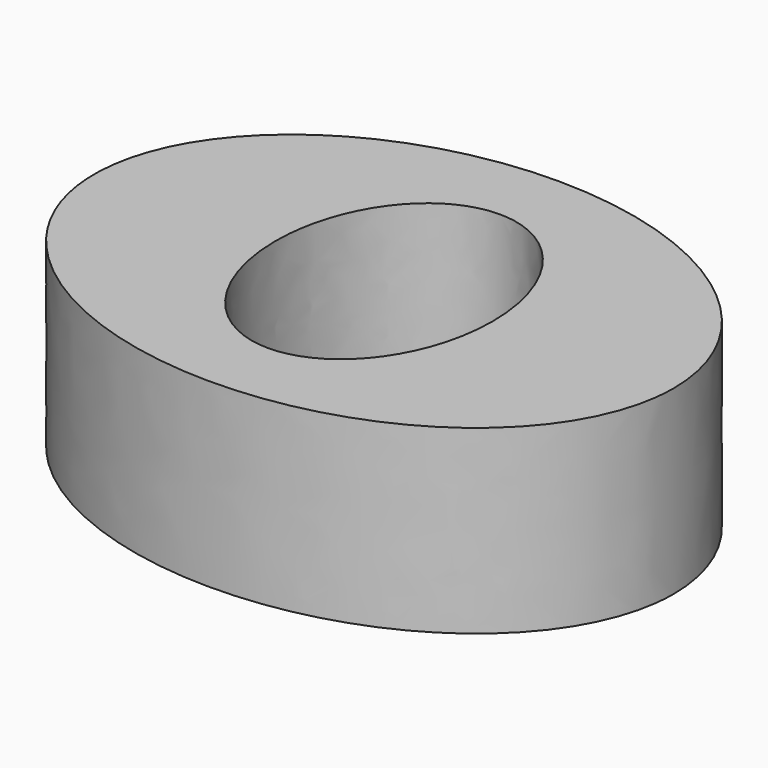
from build123d import *

# Parameters (mm, degrees)
F1_DEPTH = 25


with BuildPart() as f1:
    # F0 (on Top) → F1 (new body)
    with BuildSketch(Plane.XY):
        with BuildLine():
            add(Edge.make_bspline(
                [(40, 0), (40, 51.961524), (-20, 25.980762), (-80, 0), (-20, -25.980762), (40, -51.961524), (40, 0)],
                knots=[0, 0, 0, 2.094395, 2.094395, 4.18879, 4.18879, 6.283185, 6.283185, 6.283185], degree=2, weights=[1, 0.5, 1, 0.5, 1, 0.5, 1]))
        make_face()
        with BuildLine():
            add(Edge.make_bspline(
                [(0, 20), (-25.980762, 20), (-12.990381, -10), (0, -40), (12.990381, -10), (25.980762, 20), (0, 20)],
                knots=[0, 0, 0, 2.094395, 2.094395, 4.18879, 4.18879, 6.283185, 6.283185, 6.283185], degree=2, weights=[1, 0.5, 1, 0.5, 1, 0.5, 1]))
        make_face(mode=Mode.SUBTRACT)
    extrude(amount=F1_DEPTH)


solid = f1.part
